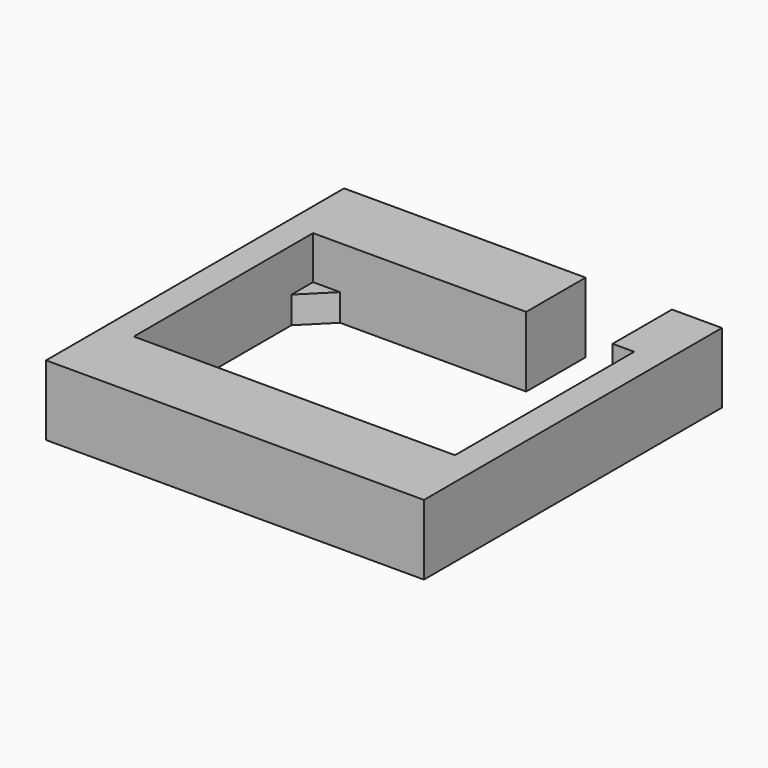
from build123d import *

# Parameters (mm, degrees)
F0_W     = 70
F0_H     = 69
F1_DEPTH = 13
F2_W     = 59.5
F2_H     = 41.5
F3_DEPTH = 8
F4_W     = 16
F4_H     = 13.75
F5_DEPTH = 13.001
F7_DEPTH = 13.001


with BuildPart() as f1:
    # F0 (on Top) → F1 (new body)
    with BuildSketch(Plane.XY):
        Rectangle(F0_W, F0_H)
    extrude(amount=F1_DEPTH)

    # F2 (on face) → F3 (cut)
    with BuildSketch(Plane.XY.offset(13)):
        Rectangle(F2_W, F2_H)
    extrude(amount=-F3_DEPTH, mode=Mode.SUBTRACT)

    # F4 (on face) → F5 (cut, through all)
    with BuildSketch(Plane.XY.offset(13)):
        with Locations((17.75, 27.625)):
            Rectangle(F4_W, F4_H)
    extrude(amount=-F5_DEPTH, mode=Mode.SUBTRACT)

    # F6 (on face) → F7 (cut, through all)
    with BuildSketch(Plane(origin=(0, 0, 0), x_dir=(1, 0, 0), z_dir=(0, 0, -1))):
        Polygon((-29.75, 15.75), (-29.75, -15.75), (-24.75, -20.75), (25.75, -20.75), (29.75, -15.75), (29.75, 15.75), (24.75, 20.75), (-24.75, 20.75), align=None)
    extrude(amount=-F7_DEPTH, mode=Mode.SUBTRACT)


solid = f1.part
